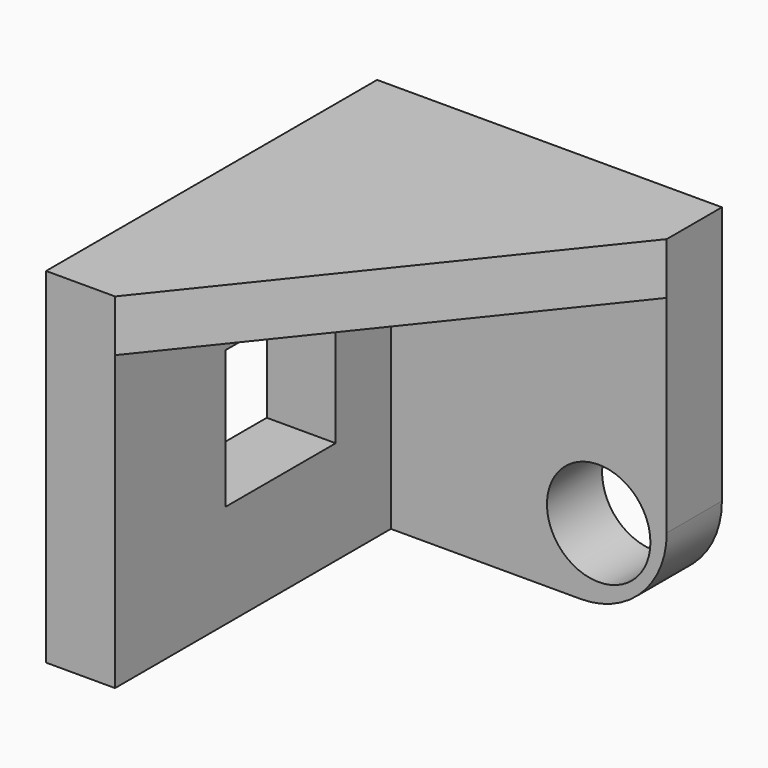
from build123d import *

# Parameters (mm, degrees)
F0_W      = 100
F0_H      = 100
F1_DEPTH  = 20
F2_R      = 15
F3_DEPTH  = 20
F4_W      = 20
F4_H      = 100
F5_DEPTH  = 100
F6_R      = 25
F7_W      = 40
F7_H      = 40
F8_DEPTH  = 20
F10_DEPTH = 15


with BuildPart() as f1:
    # F0 (on Front) → F1 (new body)
    with BuildSketch(Plane.XZ):
        Rectangle(F0_W, F0_H)
    extrude(amount=F1_DEPTH)

    # F2 (on face) → F3 (cut)
    with BuildSketch(Plane.XZ.offset(20)):
        with Locations((30.261763, -28.989102)):
            Circle(F2_R)
    extrude(amount=-F3_DEPTH, mode=Mode.SUBTRACT)

    # F4 (on face) → F5 (join)
    with BuildSketch(Plane.XZ.offset(20)):
        with Locations((-40, 0)):
            Rectangle(F4_W, F4_H)
    extrude(amount=F5_DEPTH)

    # F6
    f6_edges = [f1.edges().sort_by_distance(p)[0] for p in [
        (50, -10, -50),
    ]]
    fillet(f6_edges, radius=F6_R)

    # F7 (on face) → F8 (cut)
    with BuildSketch(Plane.YZ.offset(-30)):
        with Locations((-60, 0)):
            Rectangle(F7_W, F7_H)
    extrude(amount=-F8_DEPTH, mode=Mode.SUBTRACT)

    # F9 (on face) → F10 (join)
    with BuildSketch(Plane.XY.offset(50)):
        Polygon((-30, -20), (-30, -120), (50, -20), align=None)
    extrude(amount=-F10_DEPTH)


solid = f1.part
